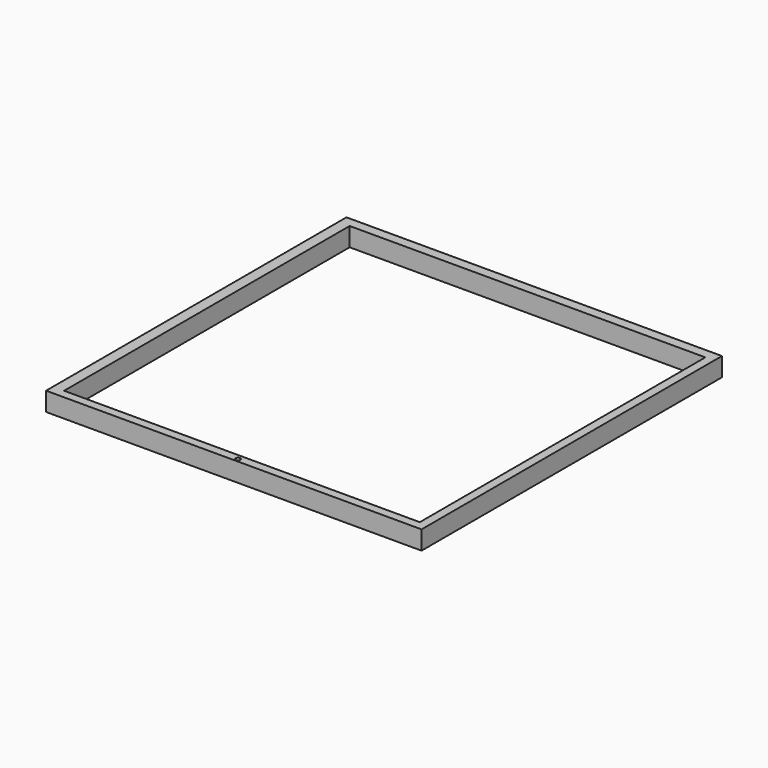
from build123d import *

# Parameters (mm, degrees)
F0_W     = 25.4
F0_H     = 254
F1_DEPTH = 5.08
F5_W     = 508
F5_H     = 508
F5_W_2   = 481.2670946121
F5_H_2   = 482.8459620476
F6_DEPTH = 25.4
F9_D     = 6.35


with BuildPart() as f1:
    # F0 (on Top) → F1 (new body)
    with BuildSketch(Plane.XY):
        with Locations((-293.8296190764, 14.3110007048)):
            Rectangle(F0_W, F0_H)
    extrude(amount=F1_DEPTH)


with BuildPart() as f6:
    # F5 (on face) → F6 (new body)
    with BuildSketch(Plane.XY):
        with Locations((-1557.362942471, 41.7894273996)):
            Rectangle(F5_W, F5_H)
        with Locations((-1555.7374358177, 40.9697592258)):
            Rectangle(F5_W_2, F5_H_2, mode=Mode.SUBTRACT)
    extrude(amount=F6_DEPTH)

    # F9 (through all)
    with Locations(Plane(origin=(0, 0, 0), x_dir=(1, 0, 0), z_dir=(0, 0, -1))):
        with Locations((-1555.3545951843, 207.7113389969)):
            Hole(F9_D / 2)


solid = f6.part
